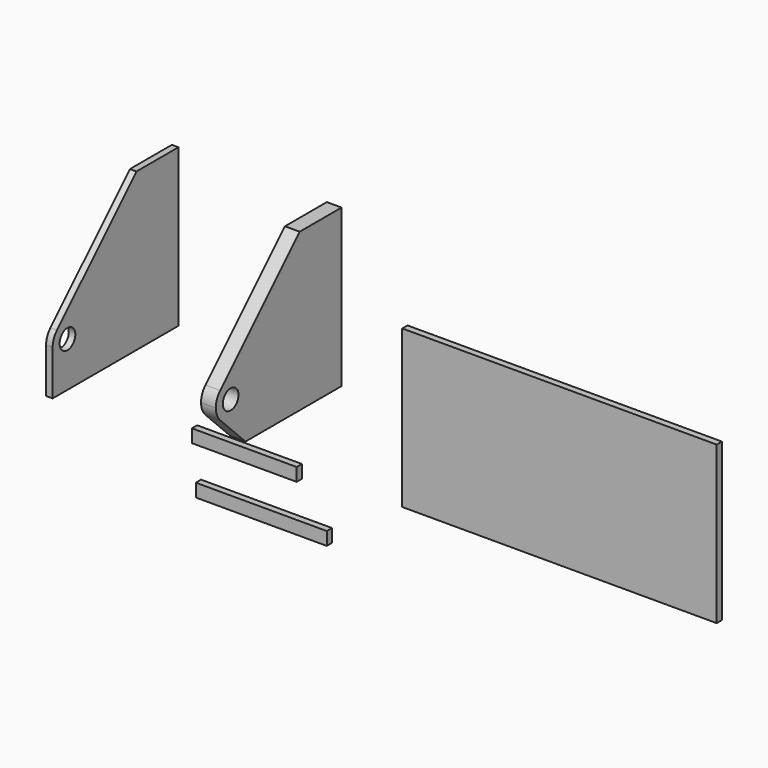
from build123d import *

# Parameters (mm, degrees)
F0_W     = 3.175
F0_H     = 76.2
F1_DEPTH = 76.2
F2_R     = 4.7625
F3_DEPTH = 3.176
F4_R     = 4.7625
F5_DEPTH = 7.14375
F6_W     = 50.8
F6_H     = 6.35
F7_DEPTH = 3.175
F6_W_2   = 63.5
F8_W     = 152.4
F8_H     = 76.2
F9_DEPTH = 3.175


with BuildPart() as f1:
    # F0 (on Front) → F1 (new body)
    with BuildSketch(Plane.XZ):
        with Locations((-73.5300647497, 44.6148249376)):
            Rectangle(F0_W, F0_H)
    extrude(amount=F1_DEPTH)

    # F2 (on face) → F3 (cut, through all)
    with BuildSketch(Plane.YZ.offset(-71.9425647497)):
        with Locations((-67.2197438789, 28.1950810586)):
            Circle(F2_R)
        Polygon((-25.4, 82.7148249376), (-76.2, 82.7148249376), (-76.2, 31.9148249376), (-73.5697438639, 34.5450810737), align=None)
        with BuildLine():
            Line((-73.5697438639, 34.5450810737), (-76.2, 31.9148249376))
            Line((-76.2, 31.9148249376), (-76.2, 28.1950810586))
            ThreePointArc((-76.2, 28.1950810586), (-75.5164187018, 31.6316763044), (-73.5697438639, 34.5450810737))
        make_face()
    extrude(amount=-F3_DEPTH, mode=Mode.SUBTRACT)


with BuildPart() as f5:
    # F4 (on Right) → F5 (new body)
    with BuildSketch(Plane.YZ):
        with BuildLine():
            Line((-25.4, 82.7148249376), (-73.5697438789, 34.5450810586))
            ThreePointArc((-73.5697438789, 34.5450810586), (-63.783148643, 36.4917558856), (-58.2394877579, 28.1950810586))
            ThreePointArc((-58.2394877579, 28.1950810586), (-63.783148643, 19.8984062317), (-73.5697438789, 21.8450810586))
            Line((-73.5697438789, 21.8450810586), (-58.2394877579, 6.5148249376))
            Line((-58.2394877579, 6.5148249376), (0, 6.5148249376))
            Line((0, 6.5148249376), (0, 82.7148249376))
            Line((0, 82.7148249376), (-25.4, 82.7148249376))
        make_face()
        with BuildLine():
            ThreePointArc((-58.2394877579, 28.1950810586), (-63.783148643, 36.4917558856), (-73.5697438789, 34.5450810586))
            ThreePointArc((-73.5697438789, 34.5450810586), (-75.5164187059, 31.6316762946), (-76.2, 28.1950810586))
            ThreePointArc((-76.2, 28.1950810586), (-75.5164187059, 24.7584858227), (-73.5697438789, 21.8450810586))
            ThreePointArc((-73.5697438789, 21.8450810586), (-63.783148643, 19.8984062317), (-58.2394877579, 28.1950810586))
        make_face()
        with Locations((-67.2197438789, 28.1950810586)):
            Circle(F4_R, mode=Mode.SUBTRACT)
    extrude(amount=F5_DEPTH)


with BuildPart() as f7:
    # F6 (on Front) → F7 (new body)
    with BuildSketch(Plane.XZ):
        with Locations((-37.4763381527, -36.1332869839)):
            Rectangle(F6_W, F6_H)
    extrude(amount=F7_DEPTH)


with BuildPart() as f7b:
    # F6 (on Front) → F7, piece 2 (new body)
    with BuildSketch(Plane.XZ):
        with Locations((-29.2448589822, -58.7110662023)):
            Rectangle(F6_W_2, F6_H)
    extrude(amount=F7_DEPTH)


with BuildPart() as f9:
    # F8 (on Front) → F9 (new body)
    with BuildSketch(Plane.XZ):
        with Locations((115.2841262519, 4.7049395782)):
            Rectangle(F8_W, F8_H)
    extrude(amount=F9_DEPTH)


solid = Compound([f1.part, f5.part, f7.part, f7b.part, f9.part])
